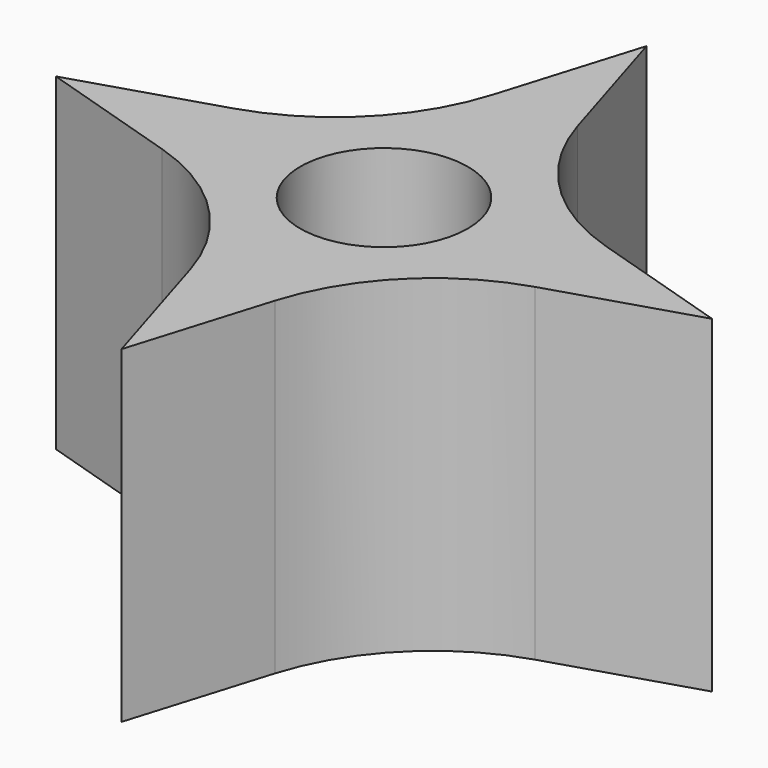
from build123d import *

# Parameters (mm, degrees)
F0_R     = 7.664044
F1_DEPTH = 30
F2_R     = 20


with BuildPart() as f1:
    # F0 (on Top) → F1 (new body)
    with BuildSketch(Plane.XY):
        Polygon((30, 0), (6.95291, 7.187283), (0, 30), (-6.95291, 7.187283), (-30, 0), (-6.95291, -7.187283), (0, -30), (6.95291, -7.187283), align=None)
        Circle(F0_R, mode=Mode.SUBTRACT)
    extrude(amount=F1_DEPTH)

    # F2
    f2_edges = [f1.edges().sort_by_distance(p)[0] for p in [
        (-6.95291, -7.187283, 15),
        (6.95291, -7.187283, 15),
        (6.95291, 7.187283, 15),
        (-6.95291, 7.187283, 15),
    ]]
    fillet(f2_edges, radius=F2_R)


solid = f1.part
